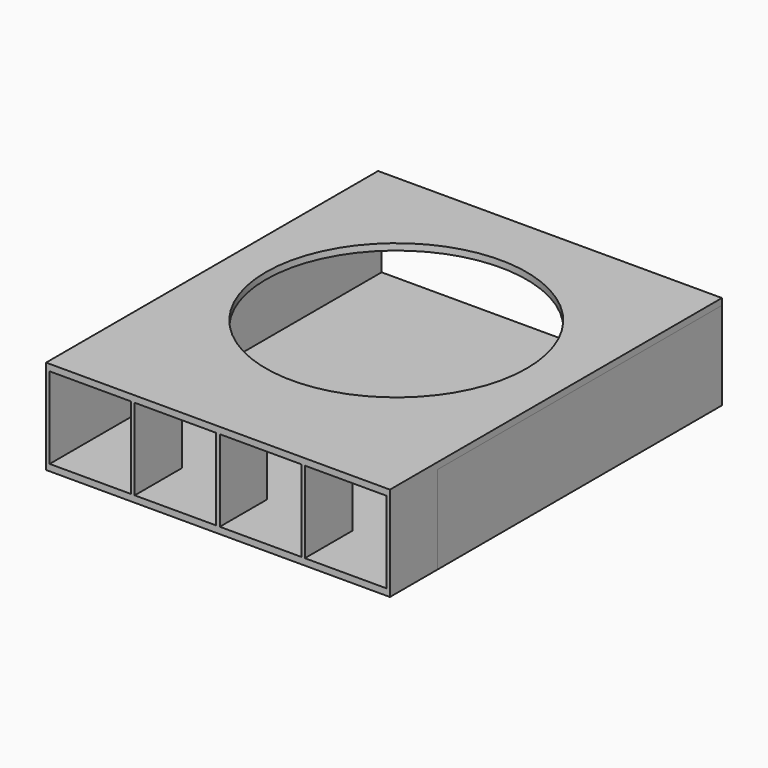
from build123d import *

# Parameters (mm, degrees)
F0_W     = 147.32
F0_H     = 40.513
F0_W_2   = 1.524
F0_H_2   = 34.925
F1_DEPTH = 25.4
F2_W     = 1.5239988621
F2_H     = 34.925
F2_W_2   = 1.5240011379
F3_DEPTH = 152.4
F4_R     = 55.88
F5_DEPTH = 25.4


with BuildPart() as f1:
    # F0 (on Front) → F1 (new body)
    with BuildSketch(Plane.XZ):
        with Locations((22.8904561008, 15.2461919377)):
            Rectangle(F0_W, F0_H)
        Polygon((-49.2455427613, 32.7086919377), (-14.3205427613, 32.7086919377), (-12.7965427613, 32.7086919377), (22.1284572387, 32.7086919377), (23.6524572387, 32.7086919377), (58.5774572387, 32.7086919377), (60.1014572387, 32.7086919377), (95.0264572387, 32.7086919377), (95.0264572387, -2.2163080623), (60.1014572387, -2.2163080623), (58.5774572387, -2.2163080623), (23.6524572387, -2.2163080623), (22.1284572387, -2.2163080623), (-12.7965427613, -2.2163080623), (-14.3205427613, -2.2163080623), (-49.2455427613, -2.2163080623), align=None, mode=Mode.SUBTRACT)
        with Locations((22.8904561008, 15.2461919377)):
            Rectangle(F0_W, F0_H)
        Polygon((-49.2455427613, 32.7086919377), (-14.3205427613, 32.7086919377), (-12.7965427613, 32.7086919377), (22.1284572387, 32.7086919377), (23.6524572387, 32.7086919377), (58.5774572387, 32.7086919377), (60.1014572387, 32.7086919377), (95.0264572387, 32.7086919377), (95.0264572387, -2.2163080623), (60.1014572387, -2.2163080623), (58.5774572387, -2.2163080623), (23.6524572387, -2.2163080623), (22.1284572387, -2.2163080623), (-12.7965427613, -2.2163080623), (-14.3205427613, -2.2163080623), (-49.2455427613, -2.2163080623), align=None, mode=Mode.SUBTRACT)
        with Locations((22.8904561008, 15.2461919377)):
            Rectangle(F0_W, F0_H)
        Polygon((-49.2455427613, 32.7086919377), (-14.3205427613, 32.7086919377), (-12.7965427613, 32.7086919377), (22.1284572387, 32.7086919377), (23.6524572387, 32.7086919377), (58.5774572387, 32.7086919377), (60.1014572387, 32.7086919377), (95.0264572387, 32.7086919377), (95.0264572387, -2.2163080623), (60.1014572387, -2.2163080623), (58.5774572387, -2.2163080623), (23.6524572387, -2.2163080623), (22.1284572387, -2.2163080623), (-12.7965427613, -2.2163080623), (-14.3205427613, -2.2163080623), (-49.2455427613, -2.2163080623), align=None, mode=Mode.SUBTRACT)
        with Locations((22.8904561008, 15.2461919377)):
            Rectangle(F0_W, F0_H)
        Polygon((-49.2455427613, 32.7086919377), (-14.3205427613, 32.7086919377), (-12.7965427613, 32.7086919377), (22.1284572387, 32.7086919377), (23.6524572387, 32.7086919377), (58.5774572387, 32.7086919377), (60.1014572387, 32.7086919377), (95.0264572387, 32.7086919377), (95.0264572387, -2.2163080623), (60.1014572387, -2.2163080623), (58.5774572387, -2.2163080623), (23.6524572387, -2.2163080623), (22.1284572387, -2.2163080623), (-12.7965427613, -2.2163080623), (-14.3205427613, -2.2163080623), (-49.2455427613, -2.2163080623), align=None, mode=Mode.SUBTRACT)
        with Locations((-13.5585427613, 15.2461919377)):
            Rectangle(F0_W_2, F0_H_2)
        with Locations((22.8904572387, 15.2461919377)):
            Rectangle(F0_W_2, F0_H_2)
        with Locations((59.3394572387, 15.2461919377)):
            Rectangle(F0_W_2, F0_H_2)
    extrude(amount=-F1_DEPTH)

    # F2 (on face) → F3 (join)
    with BuildSketch(Plane(origin=(0, 25.4, 0), x_dir=(-1, 0, 0), z_dir=(0, 1, 0))):
        with Locations((-95.7884566697, 15.2461919377)):
            Rectangle(F2_W, F2_H)
        Polygon((-60.1014572387, -2.2163080623), (-95.0264572387, -2.2163080623), (-96.5504561008, -2.2163080623), (-96.5504561008, -5.0103080623), (50.7695438992, -5.0103080623), (50.7695438992, -2.2163080623), (49.2455427613, -2.2163080623), (14.3205427613, -2.2163080623), (12.7965427613, -2.2163080623), (-22.1284572387, -2.2163080623), (-23.6524572387, -2.2163080623), (-58.5774572387, -2.2163080623), align=None)
        Polygon((-96.5504561008, 32.7086919377), (-95.0264572387, 32.7086919377), (-60.1014572387, 32.7086919377), (-58.5774572387, 32.7086919377), (-23.6524572387, 32.7086919377), (-22.1284572387, 32.7086919377), (12.7965427613, 32.7086919377), (14.3205427613, 32.7086919377), (49.2455427613, 32.7086919377), (50.7695438992, 32.7086919377), (50.7695438992, 35.5026919377), (-96.5504561008, 35.5026919377), align=None)
        with Locations((50.0075433303, 15.2461919377)):
            Rectangle(F2_W_2, F2_H)
    extrude(amount=F3_DEPTH)

    # F4 (on face) → F5 (cut)
    with BuildSketch(Plane.XY.offset(35.5026919377)):
        with Locations((21.5660557151, 97.1244573593)):
            Circle(F4_R)
    extrude(amount=-F5_DEPTH, mode=Mode.SUBTRACT)


solid = f1.part
